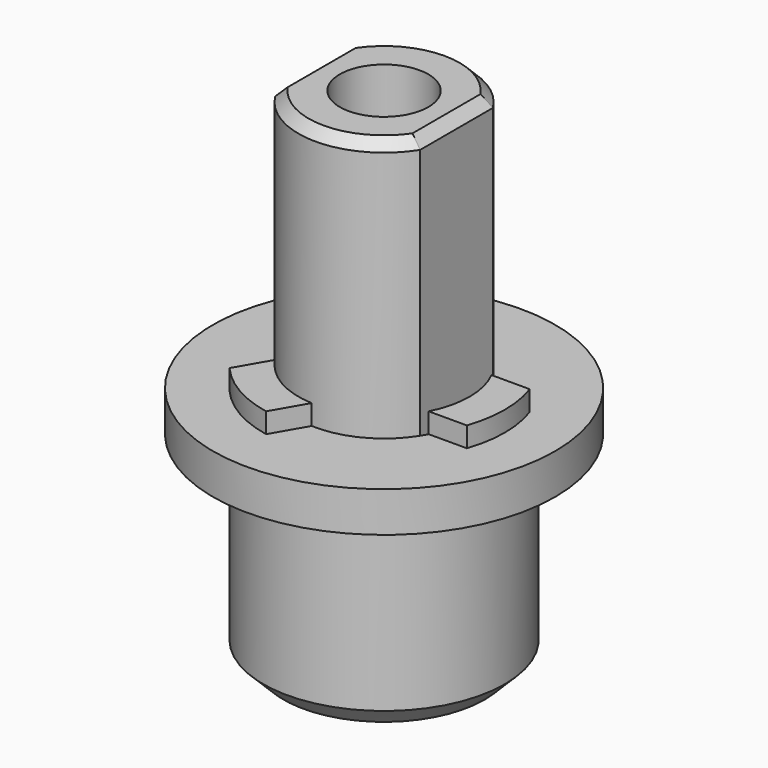
from build123d import *

# Parameters (mm, degrees)
SKETCH_R        = 6
PAD_DEPTH       = 10
PAD001_DEPTH    = 15
SKETCH002_R     = 2.2
POCKET_DEPTH    = 25.001
PAD002_DEPTH    = 3
SKETCH004_R     = 8.5
SKETCH004_R_2   = 4.25
PAD003_DEPTH    = 2
CHAMFER_SIZE    = 0.5
CHAMFER001_SIZE = 1


with BuildPart() as part:
    # Sketch → Pad (new body)
    with BuildSketch(Plane.XY):
        Circle(SKETCH_R)
    extrude(amount=PAD_DEPTH)

    # Sketch001 (on Face3 of Pad) → Pad001 (join)
    with BuildSketch(Plane.XY.offset(10)):
        with BuildLine():
            ThreePointArc((-3.6, -2.258871), (0, -4.25), (3.6, -2.258871))
            Line((3.6, -2.258871), (3.6, 2.258871))
            ThreePointArc((3.6, 2.258871), (0, 4.25), (-3.6, 2.258871))
            Line((-3.6, -2.258871), (-3.6, 2.258871))
        make_face()
    extrude(amount=PAD001_DEPTH)

    # Sketch002 (on Face8 of Pad001) → Pocket (cut, through all)
    with BuildSketch(Plane.XY.offset(25)):
        Circle(SKETCH002_R)
    extrude(amount=-POCKET_DEPTH, mode=Mode.SUBTRACT)

    # Sketch003 (on Face3 of Pocket) → Pad002 (join)
    with BuildSketch(Plane.XY.offset(10)):
        with BuildLine():
            ThreePointArc((3.776242, -1.95), (4.25, 0), (3.776242, 1.95))
            Line((3.776242, 1.95), (5.674284, 1.95))
            ThreePointArc((5.674284, -1.95), (6, 0), (5.674284, 1.95))
            Line((3.776242, -1.95), (5.674284, -1.95))
        make_face()
        with BuildLine():
            ThreePointArc((-1.148393, 5.889074), (-3, 5.196152), (-4.525892, 3.939074))
            Line((-3.57687, 2.295321), (-4.525892, 3.939074))
            ThreePointArc((-0.199371, 4.245321), (-2.125, 3.680608), (-3.57687, 2.295321))
            Line((-1.148393, 5.889074), (-0.199371, 4.245321))
        make_face()
        with BuildLine():
            ThreePointArc((-4.525892, -3.939074), (-3, -5.196152), (-1.148393, -5.889074))
            Line((-1.148393, -5.889074), (-0.199371, -4.245321))
            ThreePointArc((-3.57687, -2.295321), (-2.125, -3.680608), (-0.199371, -4.245321))
            Line((-4.525892, -3.939074), (-3.57687, -2.295321))
        make_face()
    extrude(amount=PAD002_DEPTH)

    # Sketch004 (on Face4 of Pad002) → Pad003 (join)
    with BuildSketch(Plane.XY.offset(10)):
        Circle(SKETCH004_R)
        Circle(SKETCH004_R_2, mode=Mode.SUBTRACT)
    extrude(amount=PAD003_DEPTH)

    # Chamfer
    chamfer_edges = [part.edges().sort_by_distance(p)[0] for p in [
        (-3.6, 0, 25),
        (0, 4.25, 25),
        (3.6, 0, 25),
        (0, -4.25, 25),
    ]]
    chamfer(chamfer_edges, length=CHAMFER_SIZE)

    # Chamfer001
    chamfer001_edges = [part.edges().sort_by_distance(p)[0] for p in [
        (-6, 0, 0),
    ]]
    chamfer(chamfer001_edges, length=CHAMFER001_SIZE)


solid = part.part
